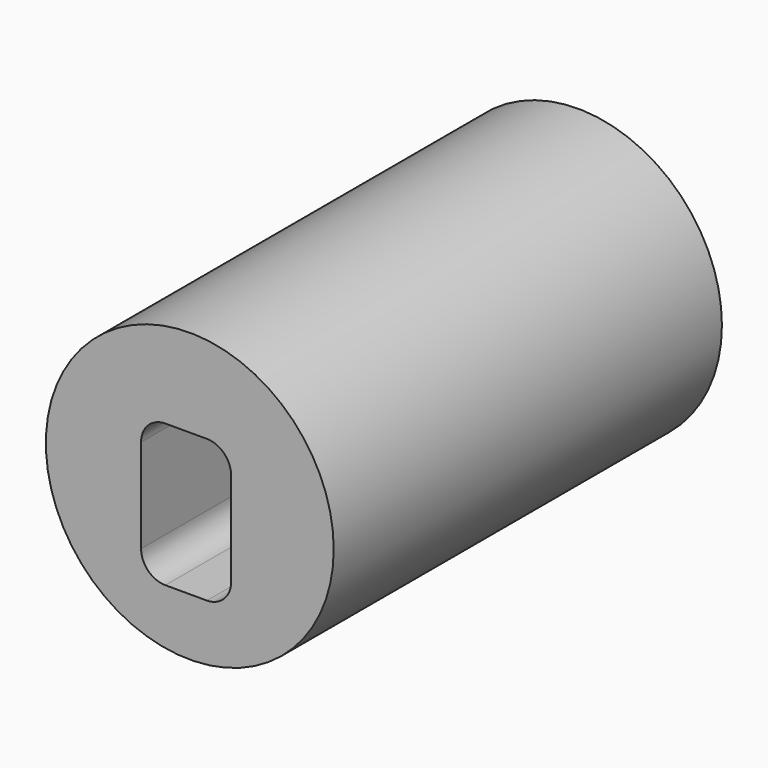
from build123d import *

# Parameters (mm, degrees)
F0_R     = 75.336492889
F1_DEPTH = 254


with BuildPart() as f1:
    # F0 (on Front) → F1 (new body)
    with BuildSketch(Plane.XZ):
        Circle(F0_R)
        with BuildLine():
            Line((-12.7904590547, 29.2949755223), (0, 29.2949755223))
            Line((0, 29.2949755223), (8.9361396015, 29.2949755223))
            ThreePointArc((8.9361396015, 29.2949755223), (17.9163957225, 25.5752316434), (21.6361396015, 16.5949755223))
            Line((21.6361396015, 16.5949755223), (21.6361396015, -32.5116811878))
            ThreePointArc((21.6361396015, -32.5116811878), (17.9163957225, -41.4919373088), (8.9361396015, -45.2116811878))
            Line((8.9361396015, -45.2116811878), (-12.7904590547, -45.2116811878))
            ThreePointArc((-12.7904590547, -45.2116811878), (-21.7707151758, -41.4919373088), (-25.4904590547, -32.5116811878))
            Line((-25.4904590547, -32.5116811878), (-25.4904590547, 16.5949755223))
            ThreePointArc((-25.4904590547, 16.5949755223), (-21.7707151758, 25.5752316434), (-12.7904590547, 29.2949755223))
        make_face(mode=Mode.SUBTRACT)
    extrude(amount=F1_DEPTH)


solid = f1.part
